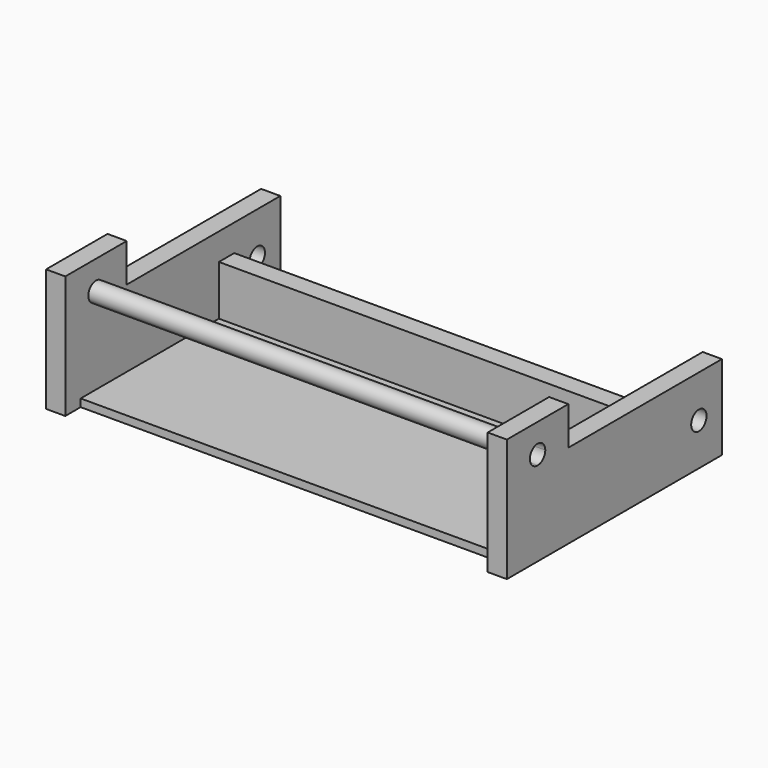
from build123d import *

# Parameters (mm, degrees)
F0_W      = 279.4
F0_H      = 127
F1_DEPTH  = 5.08
F2_R      = 6.35
F3_DEPTH  = 12.7
F5_W      = 279.4
F5_H      = 38.1
F6_DEPTH  = 12.7
F8_DEPTH  = 279.4
F9_W      = 279.4
F9_H      = 12.7
F10_DEPTH = 25.4


with BuildPart() as f1:
    # F0 (on Top) → F1 (new body)
    with BuildSketch(Plane.XY):
        Rectangle(F0_W, F0_H)
    extrude(amount=-F1_DEPTH)

    # F2 (on face) → F3 (join)
    with BuildSketch(Plane.YZ.offset(139.7)):
        Polygon((-63.5, 50.8), (-63.5, -5.08), (114.3, -5.08), (114.3, 50.8), (-12.7, 50.8), (-38.1, 50.8), align=None)
        with Locations((95.25, 22.86)):
            Circle(F2_R, mode=Mode.SUBTRACT)
        Polygon((-63.5, 76.2), (-63.5, 50.8), (-38.1, 50.8), (-12.7, 50.8), (-12.7, 76.2), align=None)
        with BuildLine():
            ThreePointArc((-31.75, 57.15), (-33.6098719395, 52.6598719395), (-38.1, 50.8))
            ThreePointArc((-38.1, 50.8), (-42.5901280605, 61.6401280605), (-31.75, 57.15))
        make_face(mode=Mode.SUBTRACT)
    extrude(amount=F3_DEPTH)

    # F4: F1 across plane


with BuildPart() as f1_1:
    add(f1.part)
    add(f1.part.mirror(Plane.YZ))

    # F5 (on face) → F6 (join)
    with BuildSketch(Plane(origin=(0, 63.5, 0), x_dir=(-1, 0, 0), z_dir=(0, 1, 0))):
        with Locations((0, 13.97)):
            Rectangle(F5_W, F5_H)
    extrude(amount=F6_DEPTH)

    # F9 (on face) → F10 (cut)
    with BuildSketch(Plane.XY):
        with Locations((0, -57.15)):
            Rectangle(F9_W, F9_H)
    extrude(amount=-F10_DEPTH, mode=Mode.SUBTRACT)


with BuildPart() as f8:
    # F7 (on face) → F8 (new body)
    with BuildSketch(Plane.YZ.offset(-139.7)):
        with BuildLine():
            ThreePointArc((-38.1, 50.8), (-33.6098719395, 52.6598719395), (-31.75, 57.15))
            ThreePointArc((-31.75, 57.15), (-42.5901280605, 61.6401280605), (-38.1, 50.8))
        make_face()
    extrude(amount=F8_DEPTH)


solid = Compound([f1_1.part, f8.part])
